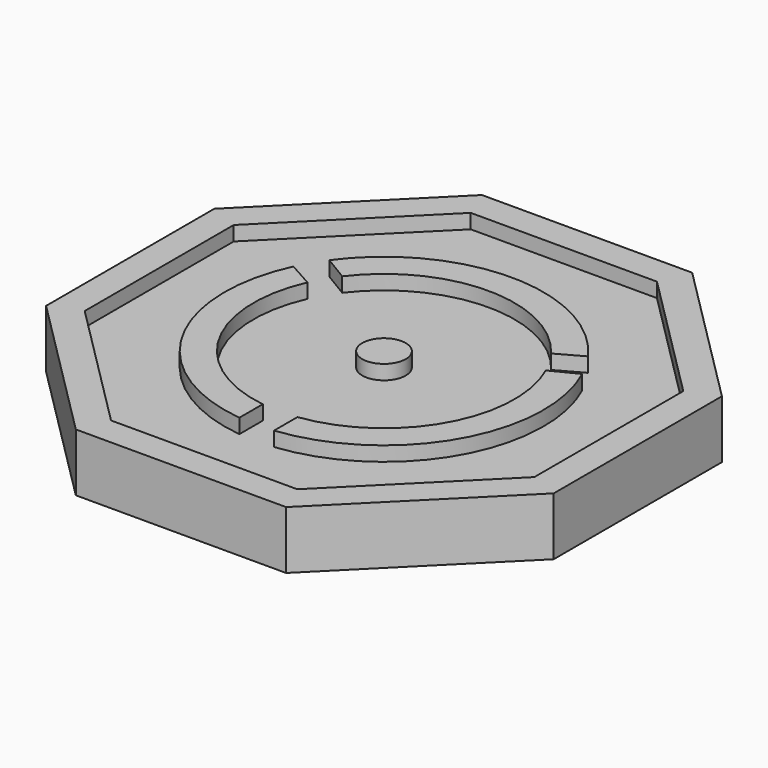
from build123d import *

# Parameters (mm, degrees)
F0_R     = 0.75
F1_DEPTH = 2
F2_DEPTH = 1.5


with BuildPart() as f1:
    # F0 (on Top) → F1 (new body)
    with BuildSketch(Plane.XY):
        Polygon((3.624369, -8.75), (8.75, -3.624369), (8.75, 3.624369), (3.624369, 8.75), (-3.624369, 8.75), (-8.75, 3.624369), (-8.75, -3.624369), (-3.624369, -8.75), align=None)
        Polygon((7.75, 3.210155), (7.75, -3.210155), (3.210155, -7.75), (-3.210155, -7.75), (-7.75, -3.210155), (-7.75, 3.210155), (-3.210155, 7.75), (3.210155, 7.75), align=None, mode=Mode.SUBTRACT)
        with BuildLine():
            ThreePointArc((-3.6, 2.7), (0, 4.5), (3.6, 2.7))
            Line((3.6, 2.7), (4.48193, 3.187837))
            ThreePointArc((4.48193, 3.187837), (0.018427, 5.499969), (-4.460469, 3.217796))
            Line((-4.460469, 3.217796), (-3.6, 2.7))
        make_face()
        with BuildLine():
            ThreePointArc((-0.613428, -4.457993), (-3.934452, -2.184054), (-4.107914, 1.837129))
            Line((-4.107914, 1.837129), (-4.983965, 2.32596))
            ThreePointArc((-4.983965, 2.32596), (-4.796888, -2.6907), (-0.613428, -5.465684))
            Line((-0.613428, -5.465684), (-0.613428, -4.457993))
        make_face()
        with BuildLine():
            ThreePointArc((4.107914, 1.837129), (3.92751, -2.196511), (0.58516, -4.461792))
            Line((0.58516, -4.461792), (0.58516, -5.468783))
            ThreePointArc((0.58516, -5.468783), (4.78045, -2.719797), (5.000083, 2.291106))
            Line((5.000083, 2.291106), (4.107914, 1.837129))
        make_face()
        Circle(F0_R)
    extrude(amount=F1_DEPTH)


with BuildPart() as f2:
    # F0 (on Top) → F2 (new body)
    with BuildSketch(Plane.XY):
        Polygon((3.210155, -7.75), (7.75, -3.210155), (7.75, 3.210155), (3.210155, 7.75), (-3.210155, 7.75), (-7.75, 3.210155), (-7.75, -3.210155), (-3.210155, -7.75), align=None)
        with BuildLine():
            Line((-4.983965, 2.32596), (-4.107914, 1.837129))
            ThreePointArc((-4.107914, 1.837129), (-3.934452, -2.184054), (-0.613428, -4.457993))
            Line((-0.613428, -4.457993), (-0.613428, -5.465684))
            ThreePointArc((-0.613428, -5.465684), (-4.796888, -2.6907), (-4.983965, 2.32596))
        make_face(mode=Mode.SUBTRACT)
        with BuildLine():
            Line((0.58516, -5.468783), (0.58516, -4.461792))
            ThreePointArc((0.58516, -4.461792), (3.92751, -2.196511), (4.107914, 1.837129))
            Line((4.107914, 1.837129), (5.000083, 2.291106))
            ThreePointArc((5.000083, 2.291106), (4.78045, -2.719797), (0.58516, -5.468783))
        make_face(mode=Mode.SUBTRACT)
        Circle(F0_R, mode=Mode.SUBTRACT)
        with BuildLine():
            Line((4.48193, 3.187837), (3.6, 2.7))
            ThreePointArc((3.6, 2.7), (0, 4.5), (-3.6, 2.7))
            Line((-3.6, 2.7), (-4.460469, 3.217796))
            ThreePointArc((-4.460469, 3.217796), (0.018427, 5.499969), (4.48193, 3.187837))
        make_face(mode=Mode.SUBTRACT)
    extrude(amount=F2_DEPTH)


solid = Compound([f1.part, f2.part])
